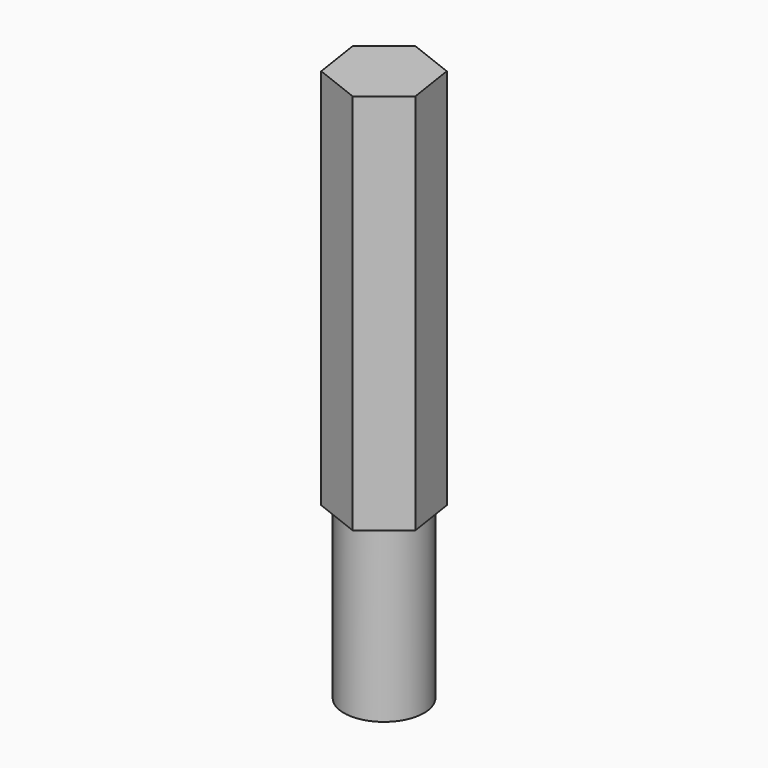
from build123d import *

# Parameters (mm, degrees)
F1_DEPTH = 57.15
F2_R     = 6
F3_DEPTH = 25.4


with BuildPart() as f1:
    # F0 (on Top) → F1 (new body)
    with BuildSketch(Plane.XY):
        Polygon((1.104013, -7.248758), (6.829615, -2.668275), (5.725602, 4.580482), (-1.104013, 7.248758), (-6.829615, 2.668275), (-5.725602, -4.580482), align=None)
    extrude(amount=F1_DEPTH)

    # F2 (on Top) → F3 (join)
    with BuildSketch(Plane.XY):
        Circle(F2_R)
    extrude(amount=-F3_DEPTH)


solid = f1.part
